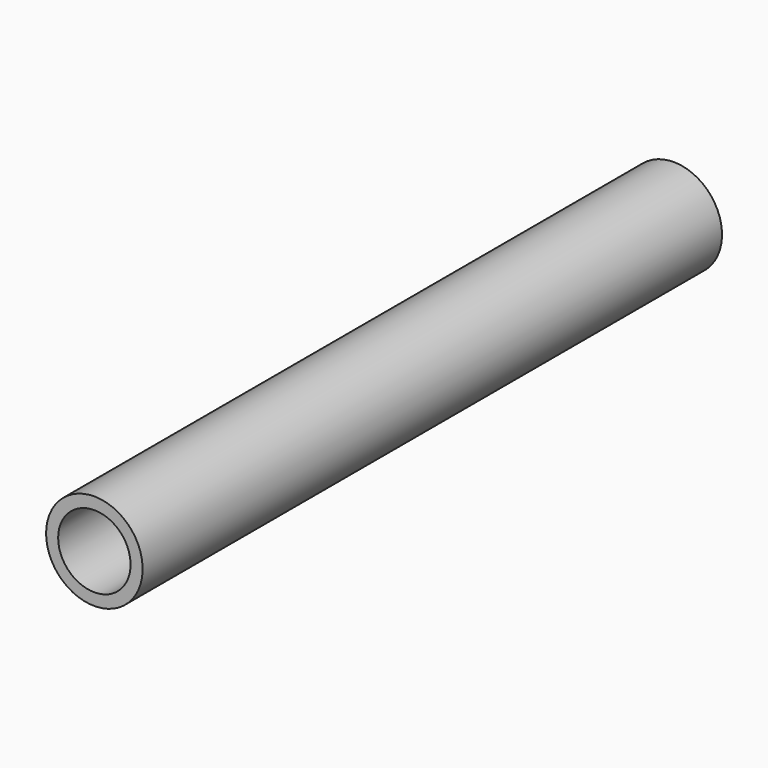
from build123d import *

# Parameters (mm, degrees)
OBJ1     = 4
OBJ1_2   = 3
EXTRUSION2_DEPTH = 60


with BuildPart() as part:
    with BuildSketch(Plane(origin=(0, 0, 0), x_dir=(-1, 0, 0), z_dir=(0, 1, 0))):
        Circle(OBJ1)
        Circle(OBJ1_2, mode=Mode.SUBTRACT)
    extrude(amount=EXTRUSION2_DEPTH)


solid = part.part
